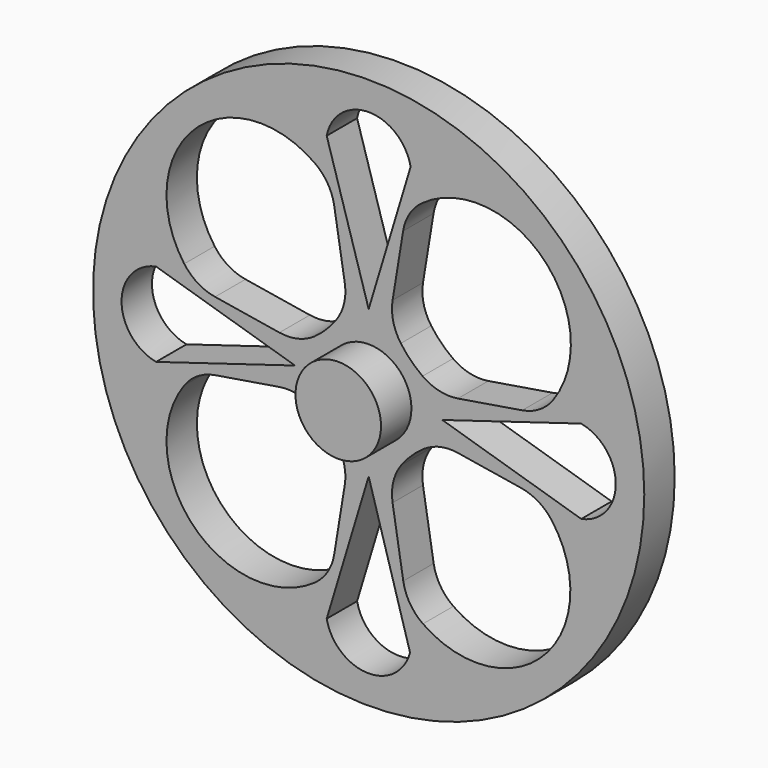
from build123d import *

# Parameters (mm, degrees)
F0_R     = 4.5
F1_DEPTH = 8
F0_R_2   = 29
F0_R_3   = 27
F2_DEPTH = 4


with BuildPart() as f1:
    # F0 (on Front) → F1 (new body)
    with BuildSketch(Plane.XZ):
        Circle(F0_R)
    extrude(amount=F1_DEPTH)

    # F0 (on Front) → F2 (join)
    with BuildSketch(Plane.XZ):
        Circle(F0_R_2)
        Circle(F0_R_3, mode=Mode.SUBTRACT)
        Circle(F0_R_3)
        with BuildLine():
            ThreePointArc((4.3516162867, -22.646052221), (-0.1431680004, -25.9977219705), (-4.4156935051, -22.3669780097))
            Line((-4.4156935051, -22.3669780097), (0, -7.75))
            Line((0, -7.75), (4.3516162867, -22.646052221))
        make_face(mode=Mode.SUBTRACT)
        with BuildLine():
            ThreePointArc((-19.4040272759, -5.6313106345), (-17.9803864059, -4.3071155471), (-16.1592835692, -3.626064584))
            Line((-16.1592835692, -3.626064584), (-9.3891987076, -2.5182325158))
            ThreePointArc((-9.3891987076, -2.5182325158), (-7.4460025695, -2.583307283), (-5.6745435039, -3.3846678354))
            ThreePointArc((-5.6745435039, -3.3846678354), (-4.4349924254, -4.4349924254), (-3.3846678354, -5.6745435039))
            ThreePointArc((-3.3846678354, -5.6745435039), (-2.583307283, -7.4460025695), (-2.5182325158, -9.3891987076))
            Line((-2.5182325158, -9.3891987076), (-3.626064584, -16.1592835692))
            ThreePointArc((-3.626064584, -16.1592835692), (-4.3071155471, -17.9803864059), (-5.6313106345, -19.4040272759))
            ThreePointArc((-5.6313106345, -19.4040272759), (-18.3847763109, -18.3847763109), (-19.4040272759, -5.6313106345))
        make_face(mode=Mode.SUBTRACT)
        with BuildLine():
            Line((3.6418333236, -16.2556480886), (2.5157025337, -9.3737377061))
            ThreePointArc((2.5157025337, -9.3737377061), (2.5903516211, -7.3902488103), (3.4308544392, -5.5920953967))
            ThreePointArc((3.4308544392, -5.5920953967), (4.5023744658, -4.3693333532), (5.760194673, -3.3391923392))
            ThreePointArc((5.760194673, -3.3391923392), (7.5038582162, -2.5767129031), (9.4061289224, -2.5210029146))
            Line((9.4061289224, -2.5210029146), (16.060956923, -3.6099747692))
            ThreePointArc((16.060956923, -3.6099747692), (17.8462537904, -4.2691049062), (19.2559417587, -5.5475873168))
            ThreePointArc((19.2559417587, -5.5475873168), (18.450217913, -18.3171768004), (5.7146063745, -19.5483572234))
            ThreePointArc((5.7146063745, -19.5483572234), (4.344802068, -18.1118904301), (3.6418333236, -16.2556480886))
        make_face(mode=Mode.SUBTRACT)
        with BuildLine():
            ThreePointArc((-22.3669780097, -4.4156935051), (-26, 0), (-22.3669780097, 4.4156935051))
            Line((-22.3669780097, 4.4156935051), (-7.75, 0))
            Line((-7.75, 0), (-22.3669780097, -4.4156935051))
        make_face(mode=Mode.SUBTRACT)
        with BuildLine():
            Line((-9.3891987076, 2.5182325158), (-16.1592835692, 3.626064584))
            ThreePointArc((-16.1592835692, 3.626064584), (-17.9803864059, 4.3071155471), (-19.4040272759, 5.6313106345))
            ThreePointArc((-19.4040272759, 5.6313106345), (-18.3847763109, 18.3847763109), (-5.6313106345, 19.4040272759))
            ThreePointArc((-5.6313106345, 19.4040272759), (-4.3071155471, 17.9803864059), (-3.626064584, 16.1592835692))
            Line((-3.626064584, 16.1592835692), (-2.5182325158, 9.3891987076))
            ThreePointArc((-2.5182325158, 9.3891987076), (-2.583307283, 7.4460025695), (-3.3846678354, 5.6745435039))
            ThreePointArc((-3.3846678354, 5.6745435039), (-4.4349924254, 4.4349924254), (-5.6745435039, 3.3846678354))
            ThreePointArc((-5.6745435039, 3.3846678354), (-7.4460025695, 2.583307283), (-9.3891987076, 2.5182325158))
        make_face(mode=Mode.SUBTRACT)
        Circle(F0_R, mode=Mode.SUBTRACT)
        with BuildLine():
            Line((16.1592835692, 3.626064584), (9.3891987076, 2.5182325158))
            ThreePointArc((9.3891987076, 2.5182325158), (7.4460025695, 2.583307283), (5.6745435039, 3.3846678354))
            ThreePointArc((5.6745435039, 3.3846678354), (4.4349924254, 4.4349924254), (3.3846678354, 5.6745435039))
            ThreePointArc((3.3846678354, 5.6745435039), (2.583307283, 7.4460025695), (2.5182325158, 9.3891987076))
            Line((2.5182325158, 9.3891987076), (3.626064584, 16.1592835692))
            ThreePointArc((3.626064584, 16.1592835692), (4.3071155471, 17.9803864059), (5.6313106345, 19.4040272759))
            ThreePointArc((5.6313106345, 19.4040272759), (18.3847763109, 18.3847763109), (19.4040272759, 5.6313106345))
            ThreePointArc((19.4040272759, 5.6313106345), (17.9803864059, 4.3071155471), (16.1592835692, 3.626064584))
        make_face(mode=Mode.SUBTRACT)
        with BuildLine():
            ThreePointArc((22.3669780097, 4.4156935051), (26, 0), (22.3669780097, -4.4156935051))
            Line((22.3669780097, -4.4156935051), (7.75, 0))
            Line((7.75, 0), (14.262410288, 1.9673565762))
            Line((14.262410288, 1.9673565762), (22.3669780097, 4.4156935051))
        make_face(mode=Mode.SUBTRACT)
        with BuildLine():
            ThreePointArc((-4.4156935051, 22.3669780097), (0, 26), (4.4156935051, 22.3669780097))
            Line((4.4156935051, 22.3669780097), (0, 7.75))
            Line((0, 7.75), (-4.4156935051, 22.3669780097))
        make_face(mode=Mode.SUBTRACT)
    extrude(amount=F2_DEPTH)


solid = f1.part
